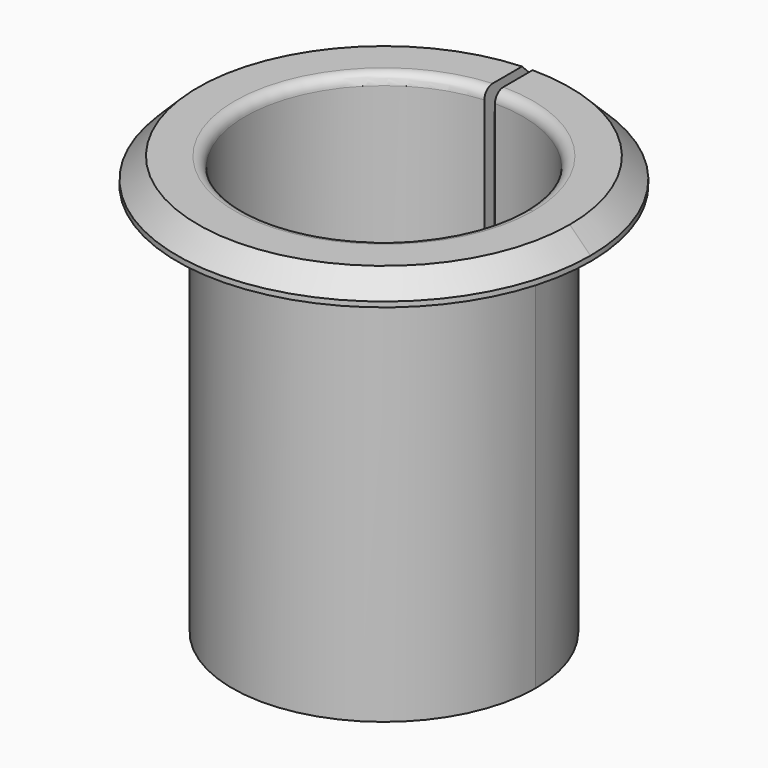
from build123d import *

# Parameters (mm, degrees)
F0_R     = 14.7
F0_R_2   = 13.45
F1_DEPTH = 38.1
F0_R_3   = 20
F2_DEPTH = 2.5
F3_SIZE  = 2
F4_R     = 1
F5_W     = 26.7045460641
F5_H     = 56.1363650486
F6_DEPTH = 1


with BuildPart() as f1:
    # F0 (on Top) → F1 (new body)
    with BuildSketch(Plane.XY):
        Circle(F0_R)
        Circle(F0_R_2, mode=Mode.SUBTRACT)
    extrude(amount=-F1_DEPTH)

    # F0 (on Top) → F2 (join)
    with BuildSketch(Plane.XY):
        Circle(F0_R_3)
        Circle(F0_R, mode=Mode.SUBTRACT)
        Circle(F0_R)
        Circle(F0_R_2, mode=Mode.SUBTRACT)
    extrude(amount=F2_DEPTH)

    # F3
    f3_edges = [f1.edges().sort_by_distance(p)[0] for p in [
        (-20, 0, 2.5),
    ]]
    chamfer(f3_edges, length=F3_SIZE)

    # F4
    f4_edges = [f1.edges().sort_by_distance(p)[0] for p in [
        (-13.45, 0, 2.5),
    ]]
    fillet(f4_edges, radius=F4_R)

    # F5 (on Right) → F6 (cut)
    with BuildSketch(Plane.YZ):
        with Locations((13.3522730321, -17.5000005402)):
            Rectangle(F5_W, F5_H)
    extrude(amount=-F6_DEPTH, mode=Mode.SUBTRACT)


solid = f1.part
